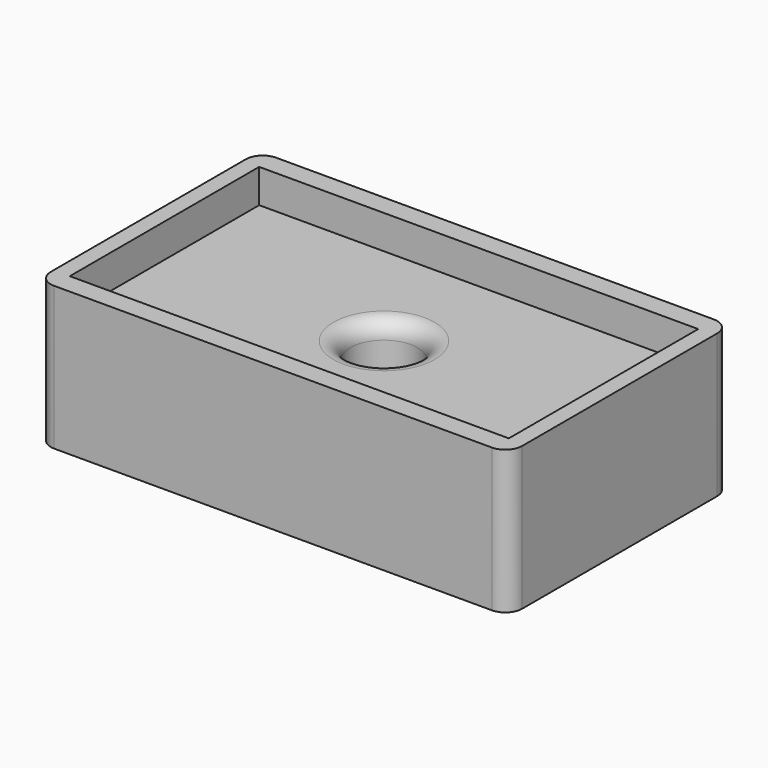
from build123d import *

# Parameters (mm, degrees)
F0_W     = 177.546
F0_H     = 104.521
F0_W_2   = 165.354
F0_H_2   = 89.154
F0_R     = 12.7
F1_DEPTH = 53.975
F2_DEPTH = 12.7
F3_R     = 6.35


with BuildPart() as f1:
    # F0 (on Top) → F1 (new body)
    with BuildSketch(Plane.XY):
        with Locations((88.773, 52.2605)):
            Rectangle(F0_W, F0_H)
        with Locations((88.773, 52.2605)):
            Rectangle(F0_W_2, F0_H_2, mode=Mode.SUBTRACT)
        with Locations((88.773, 52.2605)):
            Rectangle(F0_W_2, F0_H_2)
        with Locations((88.773, 52.2605)):
            Circle(F0_R, mode=Mode.SUBTRACT)
    extrude(amount=-F1_DEPTH)

    # F0 (on Top) → F2 (cut)
    with BuildSketch(Plane.XY):
        with Locations((88.773, 52.2605)):
            Rectangle(F0_W_2, F0_H_2)
        with Locations((88.773, 52.2605)):
            Circle(F0_R, mode=Mode.SUBTRACT)
    extrude(amount=-F2_DEPTH, mode=Mode.SUBTRACT)

    # F3
    f3_edges = [f1.edges().sort_by_distance(p)[0] for p in [
        (0, 0, -26.9875),
        (177.546, 104.521, -26.9875),
        (177.546, 0, -26.9875),
        (0, 104.521, -26.9875),
        (76.073, 52.2605, -12.7),
        (76.073, 52.2605, -53.975),
    ]]
    fillet(f3_edges, radius=F3_R)


solid = f1.part
